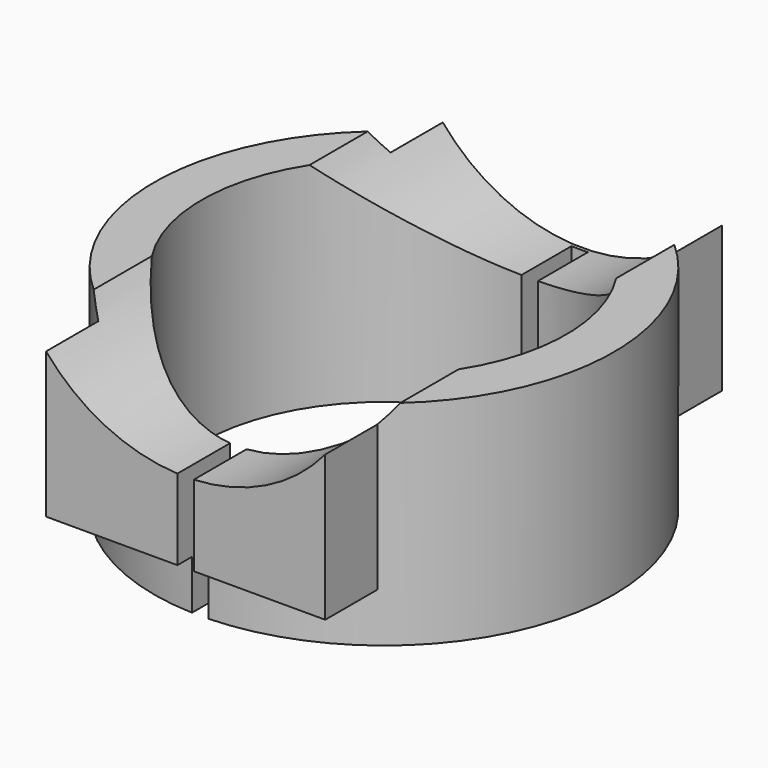
from build123d import *

# Parameters (mm, degrees)
SKETCH_R           = 14
PAD_DEPTH          = 13
SKETCH001_R        = 11.1
POCKET_DEPTH       = 13.001
SKETCH002_W        = 17
SKETCH002_H        = 4
PAD001_DEPTH       = 10
POLARPATTERN_COUNT = 2
SKETCH005_R        = 11.1
POCKET003_DEPTH    = 30.201
SKETCH006_W        = 1
SKETCH006_H        = 9.58917
POCKET004_DEPTH    = 30


with BuildPart() as part:
    # Sketch → Pad (new body)
    with BuildSketch(Plane.XY):
        Circle(SKETCH_R)
    extrude(amount=PAD_DEPTH)

    # Sketch001 → Pocket (cut, through all)
    with BuildSketch(Plane.XY.offset(13)):
        Circle(SKETCH001_R)
    extrude(amount=-POCKET_DEPTH, mode=Mode.SUBTRACT)

    # Sketch002 → Pad001 (new body)
    with BuildSketch(Plane.XY.offset(13)):
        with Locations((0, 13.1)):
            Rectangle(SKETCH002_W, SKETCH002_H)
    pad001 = extrude(amount=-PAD001_DEPTH)

    # PolarPattern: Pad001 ×2 about axis
    polarpattern_axis = Axis((0, 0, 13), (0, 0, 1))
    for i in range(1, POLARPATTERN_COUNT):
        add(pad001.rotate(polarpattern_axis, i * 360 / POLARPATTERN_COUNT))

    # Sketch005 → Pocket003 (cut, through all)
    with BuildSketch(Plane.XZ.offset(15.1)):
        with Locations((0, 19)):
            Circle(SKETCH005_R)
    extrude(amount=-POCKET003_DEPTH, mode=Mode.SUBTRACT)

    # Sketch006 → Pocket004 (cut)
    with BuildSketch(Plane.XZ.offset(15.1)):
        with Locations((0, 4.794585)):
            Rectangle(SKETCH006_W, SKETCH006_H)
    extrude(amount=-POCKET004_DEPTH, mode=Mode.SUBTRACT)


solid = part.part
